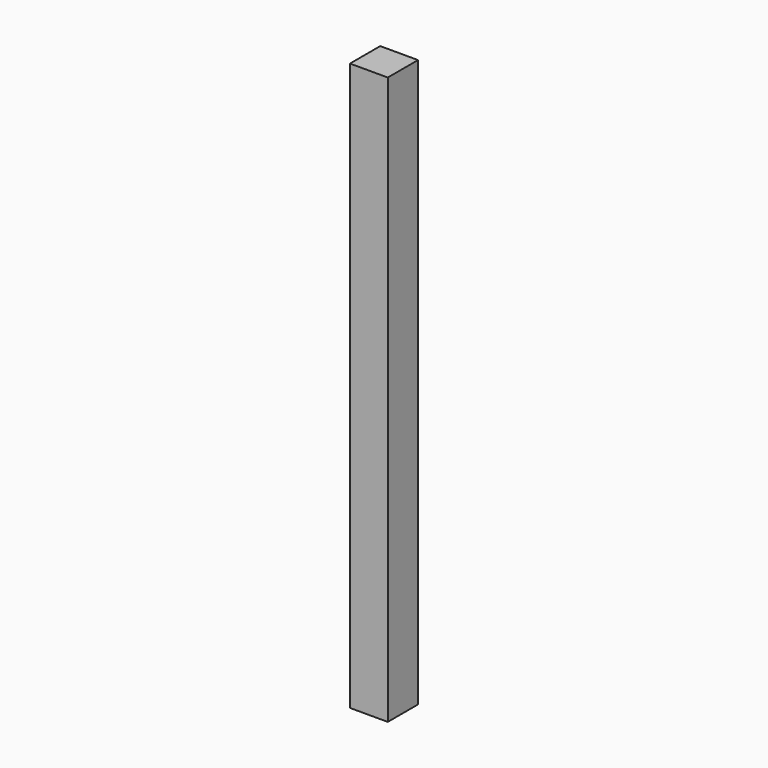
from build123d import *

# Parameters (mm, degrees)
F0_W     = 101.6
F0_H     = 1524
F1_DEPTH = 38.1
F2_DEPTH = 50.8


with BuildPart() as f1:
    # F0 (on Front) → F1 (new body, symmetric)
    with BuildSketch(Plane.XZ):
        Rectangle(F0_W, F0_H)
    extrude(amount=F1_DEPTH, both=True)

    # F0 (on Front) → F2 (join, symmetric)
    with BuildSketch(Plane.XZ):
        Rectangle(F0_W, F0_H)
    extrude(amount=F2_DEPTH, both=True)


solid = f1.part
